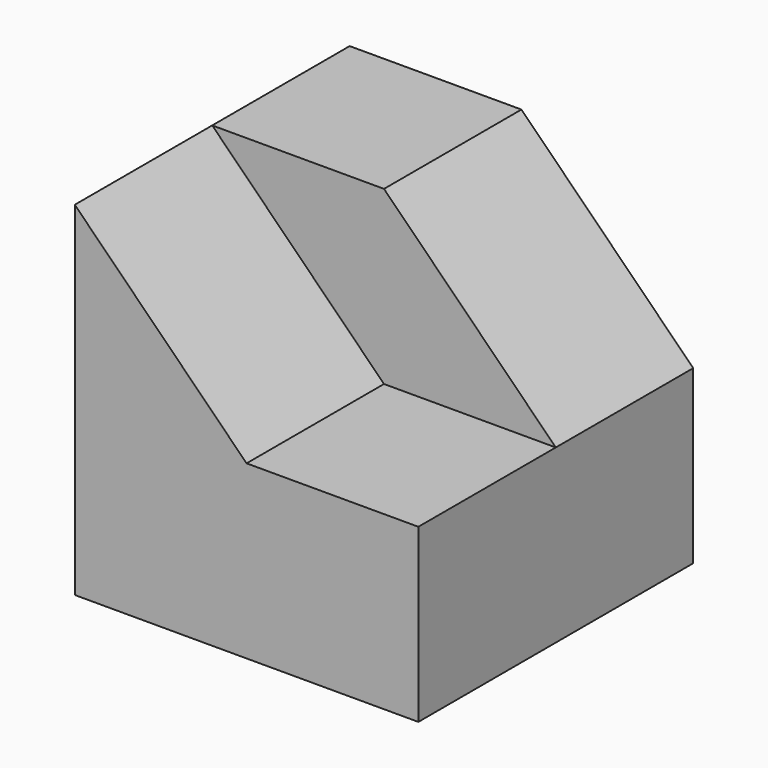
from build123d import *

# Parameters (mm, degrees)
F1_DEPTH = 100
F3_DEPTH = 50


with BuildPart() as f1:
    # F0 (on Front) → F1 (new body)
    with BuildSketch(Plane.XZ):
        Polygon((-100, 0), (0, 0), (0, 50), (-50, 100), (-100, 100), align=None)
    extrude(amount=F1_DEPTH)

    # F2 (on face) → F3 (cut)
    with BuildSketch(Plane.XZ.offset(100)):
        Polygon((-50, 50), (0, 50), (-50, 100), (-100, 100), align=None)
    extrude(amount=-F3_DEPTH, mode=Mode.SUBTRACT)


solid = f1.part
